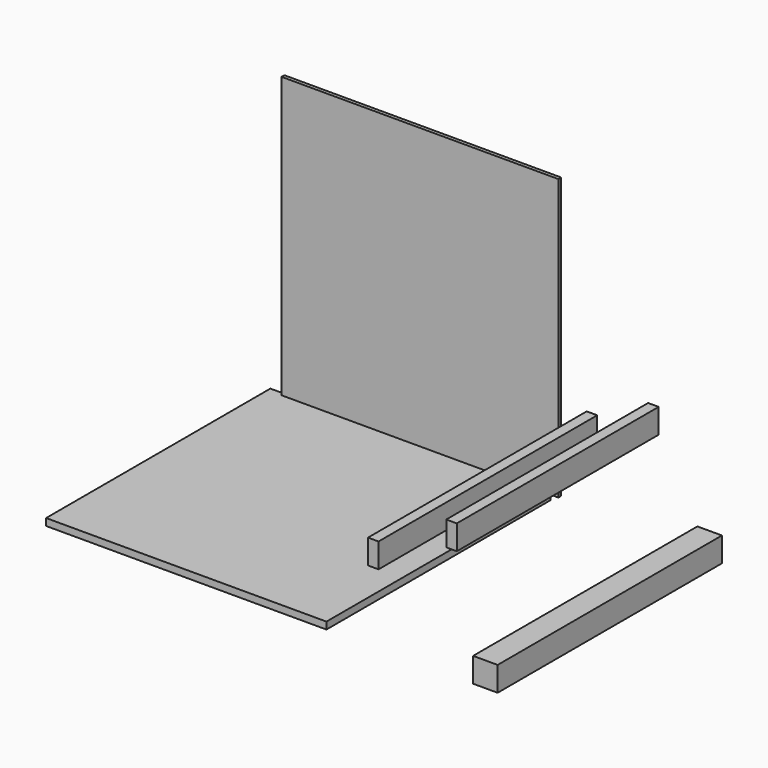
from build123d import *

# Parameters (mm, degrees)
F0_W     = 88.9
F0_H     = 88.9
F1_DEPTH = 1016
F2_W     = 1016
F2_H     = 1016
F3_DEPTH = 25.4
F4_W     = 38.1
F4_H     = 88.9
F5_DEPTH = 990.6
F6_W     = 1003.3
F6_H     = 1016
F7_DEPTH = 12.7
F8_W     = 38.1
F8_H     = 88.9
F9_DEPTH = 914.4


with BuildPart() as f1:
    # F0 (on Front) → F1 (new body)
    with BuildSketch(Plane.XZ):
        with Locations((44.45, 44.45)):
            Rectangle(F0_W, F0_H)
    extrude(amount=F1_DEPTH)


with BuildPart() as f3:
    # F2 (on Top) → F3 (new body)
    with BuildSketch(Plane.XY):
        with Locations((-1039.424937, -508)):
            Rectangle(F2_W, F2_H)
    extrude(amount=F3_DEPTH)


with BuildPart() as f5:
    # F4 (on Front) → F5 (new body)
    with BuildSketch(Plane.XZ):
        with Locations((-382.101442, 280.943796)):
            Rectangle(F4_W, F4_H)
    extrude(amount=F5_DEPTH)


with BuildPart() as f7:
    # F6 (on Front) → F7 (new body)
    with BuildSketch(Plane.XZ):
        with Locations((-995.033979, 533.563709)):
            Rectangle(F6_W, F6_H)
    extrude(amount=F7_DEPTH)


with BuildPart() as f9:
    # F8 (on Front) → F9 (new body)
    with BuildSketch(Plane.XZ):
        with Locations((-159.437669, 380.122736)):
            Rectangle(F8_W, F8_H)
    extrude(amount=F9_DEPTH)


solid = Compound([f1.part, f3.part, f5.part, f7.part, f9.part])
